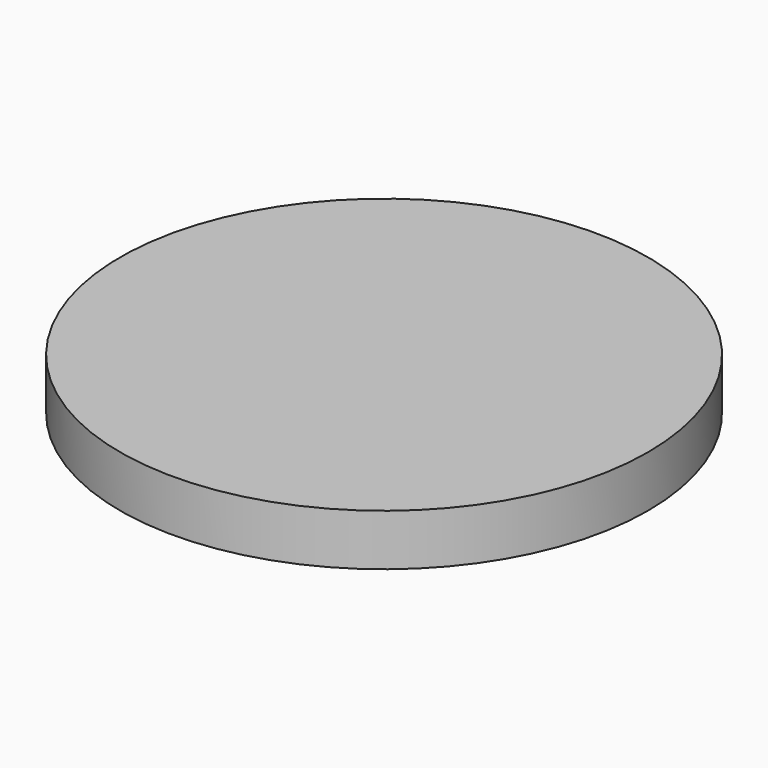
from build123d import *

# Parameters (mm, degrees)
F0_R     = 200
F1_DEPTH = 39
F2_R     = 6
F3_DEPTH = 25


with BuildPart() as f1:
    # F0 (on Top) → F1 (new body)
    with BuildSketch(Plane.XY):
        Circle(F0_R)
    extrude(amount=F1_DEPTH)

    # F2 (on face) → F3 (cut)
    with BuildSketch(Plane(origin=(0, 0, 0), x_dir=(1, 0, 0), z_dir=(0, 0, -1))):
        with Locations((110.25921, 108.939922)):
            Circle(F2_R)
        with Locations((110.25921, -108.939922)):
            Circle(F2_R)
        with Locations((-110.25921, -108.939922)):
            Circle(F2_R)
        with Locations((-110.25921, 108.939922)):
            Circle(F2_R)
    extrude(amount=-F3_DEPTH, mode=Mode.SUBTRACT)


solid = f1.part
